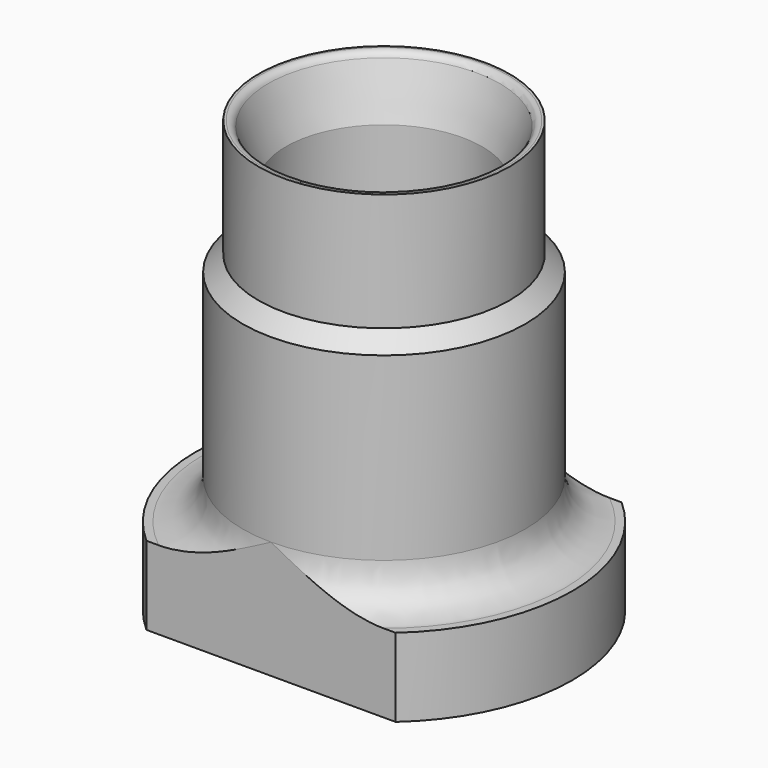
from build123d import *

# Parameters (mm, degrees)
F2_W     = 70
F2_H     = 56
F2_W_2   = 65
F2_H_2   = 36
F3_DEPTH = 57.001
F5_D     = 4.2
F5_DEPTH = 14
F5_TIP   = 1.2618073


with BuildPart() as f1:
    # F0 (on Front) → F1 (revolve)
    with BuildSketch(Plane.XZ):
        with BuildLine():
            Line((4, 7), (4, 2))
            Line((4, 2), (7, 2))
            Line((7, 2), (7, 0))
            Line((7, 0), (8.5, 0))
            Line((8.5, 0), (8.5, 2))
            Line((8.5, 2), (24, 2))
            Line((24, 2), (24, 12))
            Line((24, 12), (23, 12))
            ThreePointArc((23, 12), (19.4644660941, 13.4644660941), (18, 17))
            Line((18, 17), (18, 40))
            Line((18, 40), (16, 42))
            Line((16, 42), (16, 57))
            Line((16, 57), (15.7047191962, 57))
            ThreePointArc((15.7047191962, 57), (15.1286707595, 56.8174155605), (14.7629772846, 56.336336397))
            Line((14.7629772846, 56.336336397), (12.5, 50))
            Line((12.5, 50), (12.5, 23))
            Line((12.5, 23), (2.25, 23))
            Line((2.25, 23), (2.25, 7))
            Line((2.25, 7), (4, 7))
        make_face()
    revolve(axis=Axis((0, 0, 40.597807616), (0, 0, 1)))

    # F2 (on Top) → F3 (cut, through all)
    with BuildSketch(Plane.XY):
        Rectangle(F2_W, F2_H)
        Rectangle(F2_W_2, F2_H_2, mode=Mode.SUBTRACT)
    extrude(amount=F3_DEPTH, mode=Mode.SUBTRACT)

    # F5
    with Locations(Plane(origin=(0, 0, 2), x_dir=(1, 0, 0), z_dir=(0, 0, -1))):
        with Locations((-9.998489886, 9.998489886), (9.998489886, 9.998489886), (9.998489886, -9.998489886), (-9.998489886, -9.998489886)):
            Hole(F5_D / 2, depth=F5_DEPTH)
            with Locations((0, 0, -(F5_DEPTH + F5_TIP / 2))):  # 118° drill point
                Cone(0, F5_D / 2, F5_TIP, mode=Mode.SUBTRACT)


solid = f1.part
